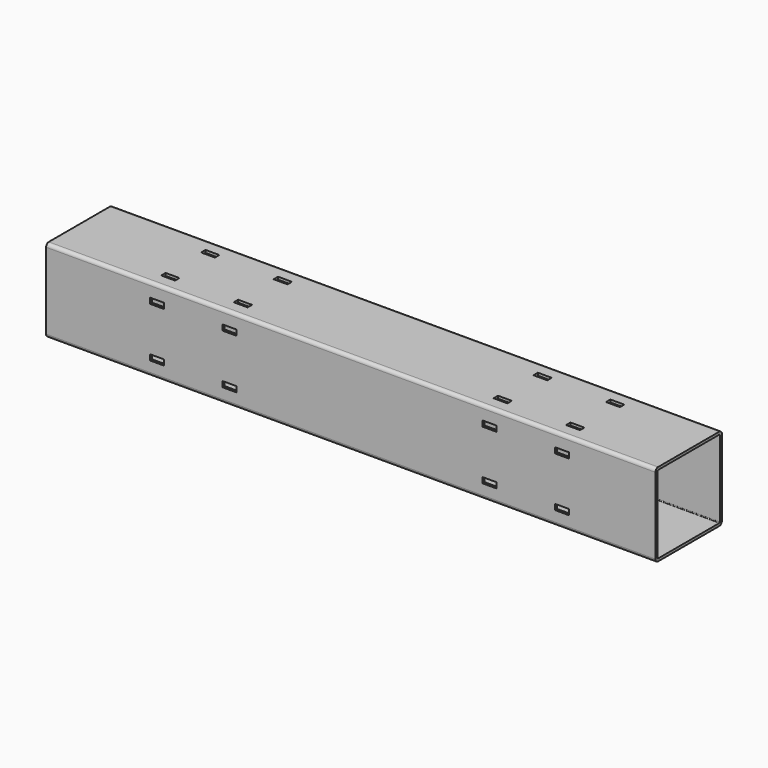
from build123d import *

# Parameters (mm, degrees)
F1_DEPTH = 558.8
F2_W     = 12.7
F2_H     = 5.08
F3_DEPTH = 2.38125
F4_DEPTH = 2.38125
F5_W     = 12.7
F5_H     = 5.08
F6_DEPTH = 2.38125
F8_DEPTH = 533.4
F9_DEPTH = 82.55


with BuildPart() as f1:
    # F0 (on Right) → F1 (new body)
    with BuildSketch(Plane.YZ):
        with BuildLine():
            Line((73.152, 0), (3.048, 0))
            ThreePointArc((3.048, 0), (0.892739, -0.892739), (0, -3.048))
            Line((0, -3.048), (0, -73.152))
            ThreePointArc((0, -73.152), (0.892739, -75.307261), (3.048, -76.2))
            Line((3.048, -76.2), (73.152, -76.2))
            ThreePointArc((73.152, -76.2), (75.307261, -75.307261), (76.2, -73.152))
            Line((76.2, -73.152), (76.2, -3.048))
            ThreePointArc((76.2, -3.048), (75.307261, -0.892739), (73.152, 0))
        make_face()
        with BuildLine():
            ThreePointArc((73.152, -2.38125), (73.623463, -2.576537), (73.81875, -3.048))
            Line((73.81875, -3.048), (73.81875, -73.152))
            ThreePointArc((73.81875, -73.152), (73.623463, -73.623463), (73.152, -73.81875))
            Line((73.152, -73.81875), (3.048, -73.81875))
            ThreePointArc((3.048, -73.81875), (2.576537, -73.623463), (2.38125, -73.152))
            Line((2.38125, -73.152), (2.38125, -3.048))
            ThreePointArc((2.38125, -3.048), (2.576537, -2.576537), (3.048, -2.38125))
            Line((3.048, -2.38125), (73.152, -2.38125))
        make_face(mode=Mode.SUBTRACT)
    extrude(amount=F1_DEPTH)

    # F2 (on face) → F3 (cut)
    with BuildSketch(Plane.XY):
        with Locations((473.075, 60.96)):
            Rectangle(F2_W, F2_H)
        with Locations((473.075, 15.24)):
            Rectangle(F2_W, F2_H)
        with Locations((406.527, 15.24)):
            Rectangle(F2_W, F2_H)
        with Locations((406.527, 60.96)):
            Rectangle(F2_W, F2_H)
    extrude(amount=-F3_DEPTH, mode=Mode.SUBTRACT)

    # F2 (on face) → F4 (cut)
    with BuildSketch(Plane.XY):
        with Locations((168.275, 60.96)):
            Rectangle(F2_W, F2_H)
        with Locations((168.275, 15.24)):
            Rectangle(F2_W, F2_H)
        with Locations((101.727, 15.24)):
            Rectangle(F2_W, F2_H)
        with Locations((101.727, 60.96)):
            Rectangle(F2_W, F2_H)
    extrude(amount=-F4_DEPTH, mode=Mode.SUBTRACT)

    # F5 (on face) → F6 (cut)
    with BuildSketch(Plane.XZ):
        with Locations((473.075, -15.24)):
            Rectangle(F5_W, F5_H)
        with Locations((473.075, -60.96)):
            Rectangle(F5_W, F5_H)
        with Locations((406.527, -60.96)):
            Rectangle(F5_W, F5_H)
        with Locations((406.527, -15.24)):
            Rectangle(F5_W, F5_H)
        with Locations((168.275, -60.96)):
            Rectangle(F5_W, F5_H)
        with Locations((168.275, -15.24)):
            Rectangle(F5_W, F5_H)
        with Locations((101.727, -60.96)):
            Rectangle(F5_W, F5_H)
        with Locations((101.727, -15.24)):
            Rectangle(F5_W, F5_H)
    extrude(amount=-F6_DEPTH, mode=Mode.SUBTRACT)

    # F7 (on face) → F8 (join)
    with BuildSketch(Plane.YZ.offset(558.8)):
        Polygon((88.9, -27.94), (76.2, -27.94), (76.2, -40.64), (79.375, -40.64), (79.375, -31.115), (88.9, -31.115), align=None)
        Polygon((40.64, -79.375), (40.64, -76.2), (27.94, -76.2), (27.94, -88.9), (31.115, -88.9), (31.115, -79.375), align=None)
    extrude(amount=-F8_DEPTH)

    # F7 (on face) → F9 (cut)
    with BuildSketch(Plane.YZ.offset(558.8)):
        Polygon((88.9, -27.94), (76.2, -27.94), (76.2, -40.64), (79.375, -40.64), (79.375, -31.115), (88.9, -31.115), align=None)
        Polygon((40.64, -79.375), (40.64, -76.2), (27.94, -76.2), (27.94, -88.9), (31.115, -88.9), (31.115, -79.375), align=None)
    extrude(amount=-F9_DEPTH, mode=Mode.SUBTRACT)


solid = f1.part
